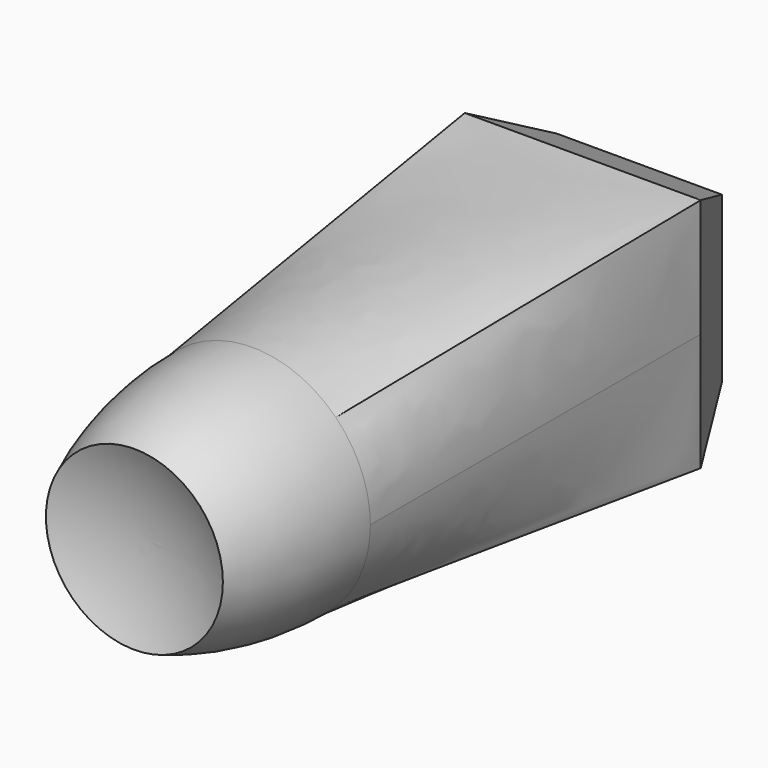
from build123d import *

# Parameters (mm, degrees)
F0_W = 40
F0_H = 40
F2_R = 20
F5_W = 28
F5_H = 28


with BuildPart() as f3:
    # F0 (on Front) → F3 section 0
    with BuildSketch(Plane.XZ):
        with Locations((20, 20)):
            Rectangle(F0_W, F0_H)
    # F2 (on offset) → F3 section 1
    with BuildSketch(Plane.XZ.offset(70)):
        with Locations((20, 20)):
            Circle(F2_R)
    loft()

    # F5 (on offset) → F6 section 0
    with BuildSketch(Plane.XZ.offset(-12)):
        with Locations((20, 20)):
            Rectangle(F5_W, F5_H)
    # F3_face (on face) → F6 section 1
    with BuildSketch(Plane(origin=(20, 0, 20), x_dir=(-1, 0, 0), z_dir=(0, 1, 0))):
        Polygon((20, -20), (20, 20), (-20, 20), (-20, 0), (-20, -20), align=None)
    loft()

    # F8 (on offset) → F9 (revolve)
    with BuildSketch(Plane.XY.offset(20)):
        with BuildLine():
            Line((40, -70), (20, -70))
            Line((20, -70), (20, -92))
            ThreePointArc((20, -92), (27.648529, -92.757354), (35, -95))
            ThreePointArc((35, -95), (38.737744, -82.747549), (40, -70))
        make_face()
    revolve(axis=Axis((20, -93.5, 20), (0, -1, 0)))


solid = f3.part
